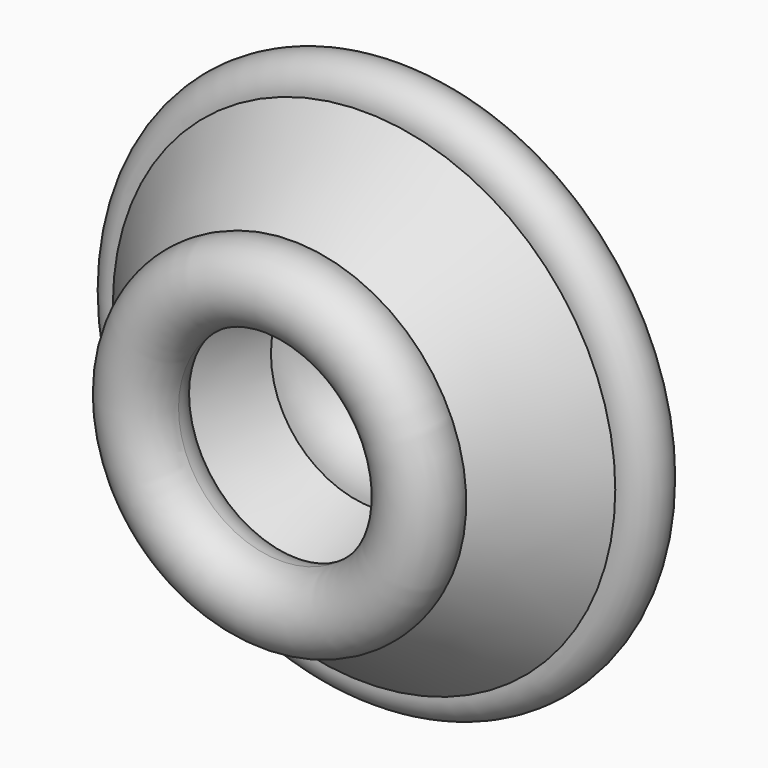
from build123d import *


with BuildPart() as f1:
    # F0 (on Top) → F1 (revolve)
    with BuildSketch(Plane.XY):
        with BuildLine():
            ThreePointArc((-39.167399, 44.039859), (-39.096286, 43.431173), (-39.072534, 42.818807))
            ThreePointArc((-39.072534, 42.818807), (-39.723203, 39.677983), (-41.568109, 37.054155))
            Line((-41.568109, 37.054155), (-21.499252, 13.717133))
            Line((-21.499252, 13.717133), (-10.935516, 39.553555))
            ThreePointArc((-10.935516, 39.553555), (-15.954769, 43.867126), (-18.243739, 50.076828))
            Line((-18.243739, 50.076828), (-39.167399, 44.039859))
        make_face()
        with BuildLine():
            Line((-10.935516, 39.553555), (-21.499252, 13.717133))
            ThreePointArc((-21.499252, 13.717133), (-17.202869, 15.750652), (-12.449761, 15.705174))
            Line((-12.449761, 15.705174), (-4.473088, 38.223276))
            ThreePointArc((-4.473088, 38.223276), (-7.788915, 38.477371), (-10.935516, 39.553555))
        make_face()
        with BuildLine():
            ThreePointArc((-43.169684, 49.74672), (-40.505642, 47.358188), (-39.167399, 44.039859))
            Line((-39.167399, 44.039859), (-18.243739, 50.076828))
            ThreePointArc((-18.243739, 50.076828), (-17.569397, 55.734572), (-14.569423, 60.578637))
            Line((-14.569423, 60.578637), (-43.169684, 49.74672))
        make_face()
        with BuildLine():
            ThreePointArc((-12.449761, 15.705174), (-17.202869, 15.750652), (-21.499252, 13.717133))
            ThreePointArc((-21.499252, 13.717133), (-23.348465, 11.842418), (-24.679289, 9.570184))
            ThreePointArc((-24.679289, 9.570184), (-17.062551, -5.014059), (-4.310627, 5.383213))
            ThreePointArc((-4.310627, 5.383213), (-6.590184, 11.955663), (-12.449761, 15.705174))
        make_face()
        with BuildLine():
            ThreePointArc((-14.569423, 60.578637), (-17.569397, 55.734572), (-18.243739, 50.076828))
            ThreePointArc((-18.243739, 50.076828), (-15.954769, 43.867126), (-10.935516, 39.553555))
            ThreePointArc((-10.935516, 39.553555), (-7.788915, 38.477371), (-4.473088, 38.223276))
            ThreePointArc((-4.473088, 38.223276), (4.415029, 42.302097), (8.04408, 51.383143))
            ThreePointArc((8.04408, 51.383143), (-0.168948, 63.588958), (-14.569423, 60.578637))
        make_face()
        with BuildLine():
            ThreePointArc((-41.568109, 37.054155), (-39.723203, 39.677983), (-39.072534, 42.818807))
            ThreePointArc((-39.072534, 42.818807), (-39.096286, 43.431173), (-39.167399, 44.039859))
            ThreePointArc((-39.167399, 44.039859), (-40.505642, 47.358188), (-43.169684, 49.74672))
            ThreePointArc((-43.169684, 49.74672), (-54.693293, 44.545507), (-46.486224, 34.928326))
            ThreePointArc((-46.486224, 34.928326), (-43.841588, 35.561905), (-41.568109, 37.054155))
        make_face()
        with BuildLine():
            Line((-21.499252, 13.717133), (-41.568109, 37.054155))
            ThreePointArc((-41.568109, 37.054155), (-43.841588, 35.561905), (-46.486224, 34.928326))
            Line((-46.486224, 34.928326), (-24.679289, 9.570184))
            ThreePointArc((-24.679289, 9.570184), (-23.348465, 11.842418), (-21.499252, 13.717133))
        make_face()
    revolve(axis=Axis((24.467889, 29.361469, 0), (0, -1, 0)))


solid = f1.part
